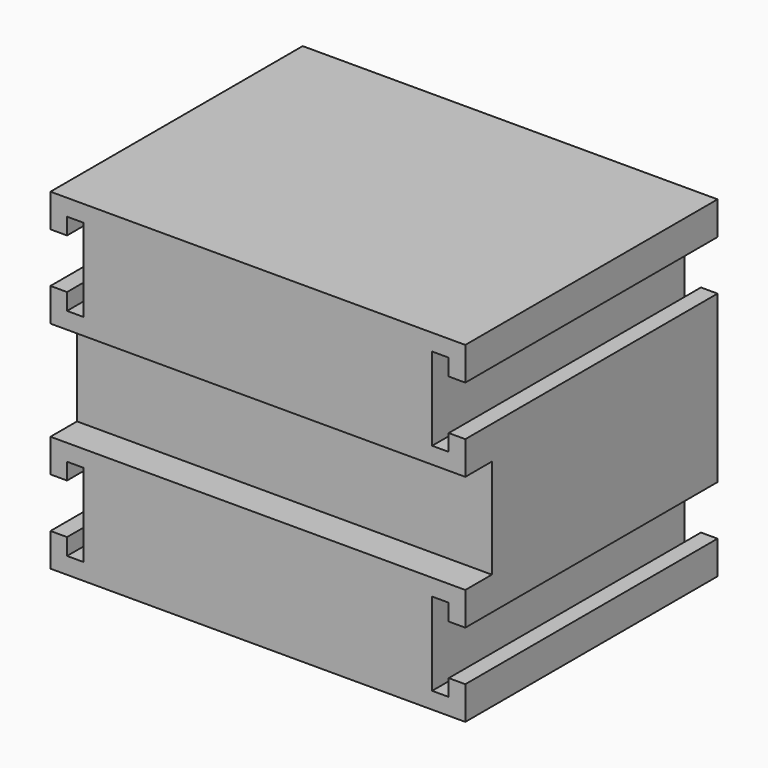
from build123d import *

# Parameters (mm, degrees)
F0_W     = 25
F0_H     = 20
F1_DEPTH = 19
F2_W     = 25
F2_H     = 6
F3_DEPTH = 2
F5_DEPTH = 19.001


with BuildPart() as f1:
    # F0 (on Front) → F1 (new body)
    with BuildSketch(Plane.XZ):
        Rectangle(F0_W, F0_H)
    extrude(amount=-F1_DEPTH)

    # F2 (on face) → F3 (cut)
    with BuildSketch(Plane.XZ):
        Rectangle(F2_W, F2_H)
    extrude(amount=-F3_DEPTH, mode=Mode.SUBTRACT)

    # F4 (on face) → F5 (cut, through all)
    with BuildSketch(Plane.XZ):
        Polygon((-11.5, 8), (-12.5, 8), (-12.5, 5), (-11.5, 5), (-11.5, 4), (-10.5, 4), (-10.5, 9), (-11.5, 9), align=None)
        Polygon((11.5, 8), (11.5, 9), (10.5, 9), (10.5, 4), (11.5, 4), (11.5, 5), (12.5, 5), (12.5, 8), align=None)
        Polygon((-11.5, -4), (-11.5, -5), (-12.5, -5), (-12.5, -8), (-11.5, -8), (-11.5, -9), (-10.5, -9), (-10.5, -4), align=None)
        Polygon((12.5, -5), (11.5, -5), (11.5, -4), (10.5, -4), (10.5, -9), (11.5, -9), (11.5, -8), (12.5, -8), align=None)
    extrude(amount=-F5_DEPTH, mode=Mode.SUBTRACT)


solid = f1.part
